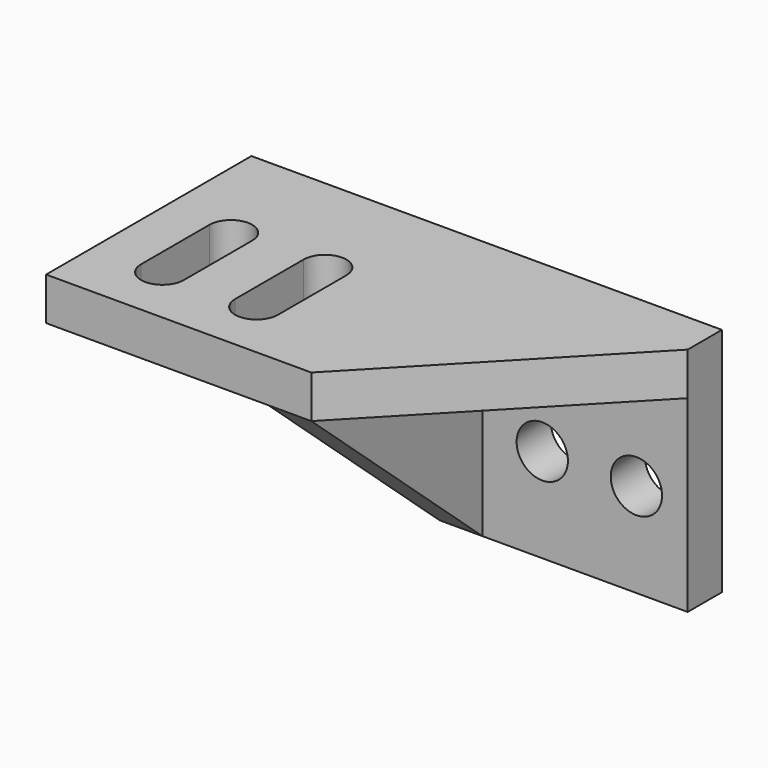
from build123d import *

# Parameters (mm, degrees)
F1_DEPTH  = 10
F2_W      = 110
F2_H      = 10
F3_DEPTH  = 50
F4_W      = 10
F4_H      = 44
F5_DEPTH  = 50
F7_DEPTH  = 11
F9_DEPTH  = 25
F10_R     = 6
F11_DEPTH = 11
F13_DEPTH = 11


with BuildPart() as f1:
    # F0 (on Front) → F1 (new body)
    with BuildSketch(Plane.XZ):
        Polygon((35.2384935319, 27.3238807813), (-74.7615064681, 27.3238807813), (-74.7615064681, 7.3238807813), (-22.7615064681, -26.6761192187), (35.2384935319, -26.6761192187), align=None)
    extrude(amount=F1_DEPTH)

    # F2 (on face) → F3 (join)
    with BuildSketch(Plane.XZ.offset(10)):
        with Locations((-19.7615064681, 22.3238807813)):
            Rectangle(F2_W, F2_H)
    extrude(amount=F3_DEPTH)

    # F4 (on face) → F5 (join)
    with BuildSketch(Plane.XZ.offset(10)):
        with Locations((-17.7615064681, -4.6761192187)):
            Rectangle(F4_W, F4_H)
    extrude(amount=F5_DEPTH)

    # F6 (on face) → F7 (cut)
    with BuildSketch(Plane.YZ.offset(-12.7615064681)):
        Polygon((-10, -26.6761192187), (-60, 17.3238807813), (-60, -26.6761192187), align=None)
    extrude(amount=-F7_DEPTH, mode=Mode.SUBTRACT)

    # F8 (on face) → F9 (cut)
    with BuildSketch(Plane(origin=(0, 0, 17.3238807813), x_dir=(1, 0, 0), z_dir=(0, 0, -1))):
        Polygon((35.2384935319, 60), (-12.7615064681, 60), (35.2384935319, 10), align=None)
    extrude(amount=-F9_DEPTH, mode=Mode.SUBTRACT)

    # F10 (on face) → F11 (cut)
    with BuildSketch(Plane.XZ.offset(10)):
        with Locations((23.2384935319, -4.6761192187)):
            Circle(F10_R)
        with Locations((1.2384935319, -4.6761192187)):
            Circle(F10_R)
    extrude(amount=-F11_DEPTH, mode=Mode.SUBTRACT)

    # F12 (on face) → F13 (cut)
    with BuildSketch(Plane(origin=(0, 0, 17.3238807813), x_dir=(1, 0, 0), z_dir=(0, 0, -1))):
        with BuildLine():
            ThreePointArc((-53.7615064681, 46), (-58.7615064681, 51), (-63.7615064681, 46))
            Line((-63.7615064681, 46), (-63.7615064681, 26))
            ThreePointArc((-63.7615064681, 26), (-58.7615064681, 21), (-53.7615064681, 26))
            Line((-53.7615064681, 26), (-53.7615064681, 46))
        make_face()
        with BuildLine():
            Line((-41.7615064681, 46), (-41.7615064681, 26))
            ThreePointArc((-41.7615064681, 26), (-36.7615064681, 21), (-31.7615064681, 26))
            Line((-31.7615064681, 26), (-31.7615064681, 46))
            ThreePointArc((-31.7615064681, 46), (-36.7615064681, 51), (-41.7615064681, 46))
        make_face()
    extrude(amount=-F13_DEPTH, mode=Mode.SUBTRACT)


solid = f1.part
